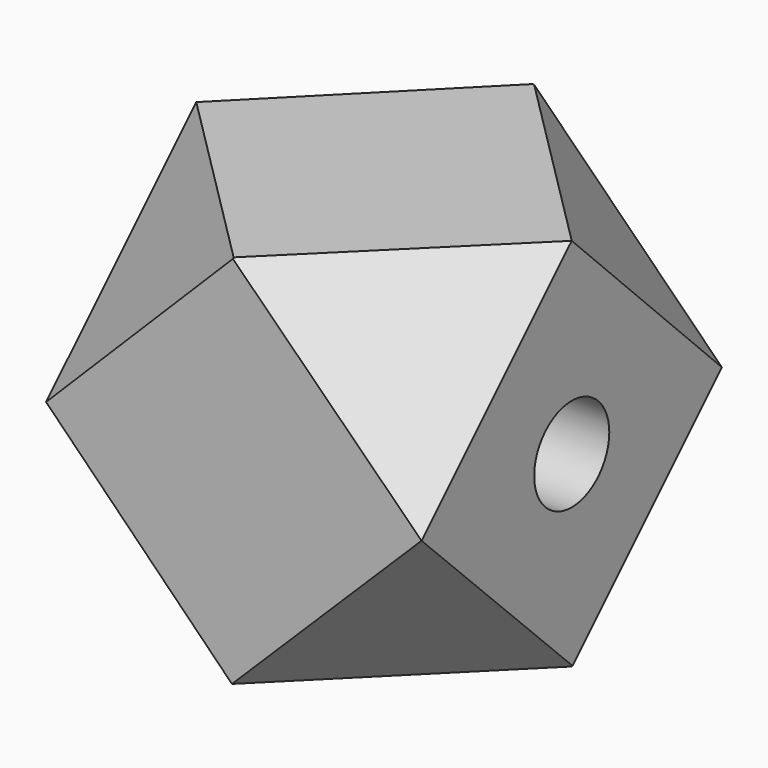
from build123d import *

# Parameters (mm, degrees)
F0_W      = 50.8
F0_H      = 50.8
F1_DEPTH  = 25.4
F9_W      = 81.569908
F9_H      = 70.63064
F10_DEPTH = 29.3
F12_R     = 89.535531
F13_DEPTH = 25
F15_R     = 39.569466
F16_DEPTH = 41
F18_W     = 58.592394
F18_H     = 71.147578
F19_DEPTH = 100
F21_W     = 80.173537
F21_H     = 55.645675
F22_DEPTH = 42.7
F24_W     = 87.651257
F24_H     = 68.795107
F25_DEPTH = 25
F27_W     = 100.011413
F27_H     = 117.008079
F28_DEPTH = 25
F30_W     = 0.249144
F30_H     = 2.697075
F31_DEPTH = 48.9
F32_R     = 6.35
F33_DEPTH = 25.4


with BuildPart() as f1:
    # F0 (on Front) → F1 (new body, symmetric)
    with BuildSketch(Plane.XZ):
        with Locations((0.251064, 25.4)):
            Rectangle(F0_W, F0_H)
    extrude(amount=F1_DEPTH, both=True)

    # F9 (on face) → F10 (cut)
    with BuildSketch(Plane(origin=(-8.382979, 8.382979, -8.382979), x_dir=(-0.408248, -0.816497, -0.408248), z_dir=(-0.57735, 0.57735, -0.57735))):
        with Locations((-10.190026, 10.921631)):
            Rectangle(F9_W, F9_H)
    extrude(amount=F10_DEPTH, mode=Mode.SUBTRACT)

    # F12 (on face) → F13 (cut)
    with BuildSketch(Plane(origin=(8.550355, 8.550355, -8.550355), x_dir=(0.408248, -0.816497, -0.408248), z_dir=(-0.57735, -0.57735, 0.57735))):
        with Locations((-35.490789, 68.001591)):
            Circle(F12_R)
    extrude(amount=-F13_DEPTH, mode=Mode.SUBTRACT)

    # F15 (on face) → F16 (cut)
    with BuildSketch(Plane(origin=(25.483688, 25.483688, 25.483688), x_dir=(0.408248, -0.816497, 0.408248), z_dir=(-0.57735, -0.57735, -0.57735))):
        with Locations((9.887295, 17.477341)):
            Circle(F15_R)
    extrude(amount=-F16_DEPTH, mode=Mode.SUBTRACT)

    # F18 (on face) → F19 (cut)
    with BuildSketch(Plane(origin=(-25.484761, 25.230394, 25.230394), x_dir=(-0.408912, -0.817865, 0.404831), z_dir=(-0.581211, 0.57541, 0.57541))):
        with Locations((4.633598, 13.250503)):
            Rectangle(F18_W, F18_H)
    extrude(amount=F19_DEPTH, mode=Mode.SUBTRACT)

    # F21 (on face) → F22 (cut)
    with BuildSketch(Plane(origin=(-25.316312, -25.316312, 25.316312), x_dir=(0.816497, -0.408248, 0.408248), z_dir=(-0.57735, -0.57735, 0.57735))):
        with Locations((7.817443, 21.68025)):
            Rectangle(F21_W, F21_H)
    extrude(amount=F22_DEPTH, mode=Mode.SUBTRACT)

    # F24 (on face) → F25 (cut)
    with BuildSketch(Plane(origin=(-8.494105, -8.410968, -8.410968), x_dir=(-0.408899, 0.817838, -0.404897), z_dir=(0.581136, 0.575448, 0.575448))):
        with Locations((-14.611577, 10.17838)):
            Rectangle(F24_W, F24_H)
    extrude(amount=-F25_DEPTH, mode=Mode.SUBTRACT)

    # F27 (on face) → F28 (cut)
    with BuildSketch(Plane(origin=(8.410968, -8.410968, -8.494105), x_dir=(0.817838, 0.404897, 0.408899), z_dir=(-0.575448, 0.575448, 0.581136))):
        with Locations((1.137109, -4.921732)):
            Rectangle(F27_W, F27_H)
    extrude(amount=-F28_DEPTH, mode=Mode.SUBTRACT)

    # F30 (on face) → F31 (cut)
    with BuildSketch(Plane(origin=(25.315773, -25.566005, 25.566005), x_dir=(0.81916, 0.405571, -0.405571), z_dir=(0.573565, -0.579234, 0.579234))):
        Polygon((-45.404907, 18.753311), (-67.2075, 18.753311), (-67.2075, -9.424486), (53.327814, -9.424486), (53.327814, 18.753311), (35.788387, 18.753311), align=None)
        with Locations((35.663815, 20.775202)):
            Rectangle(F30_W, F30_H)
        Polygon((-45.404907, 42.469528), (-45.404907, 18.753311), (35.788387, 18.753311), (35.788387, 19.426664), (35.539243, 19.426664), (35.539243, 22.123739), (35.788387, 22.123739), (35.788387, 42.469528), align=None)
    extrude(amount=F31_DEPTH, mode=Mode.SUBTRACT)

    # F32 (on face) → F33 (cut)
    with BuildSketch(Plane.YZ.offset(25.651064)):
        with Locations((0, 25.4)):
            Circle(F32_R)
    extrude(amount=-F33_DEPTH, mode=Mode.SUBTRACT)


solid = f1.part
